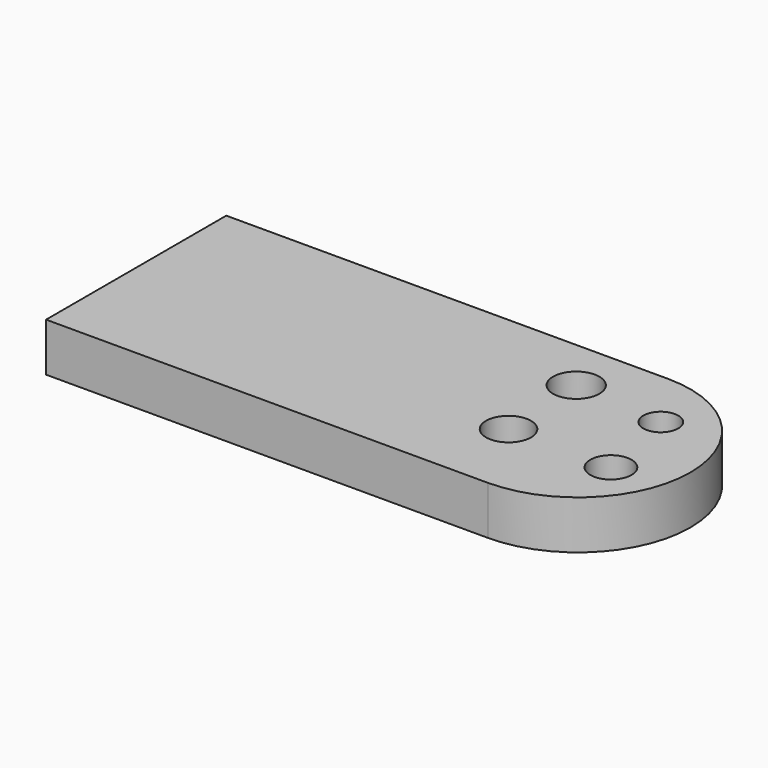
from build123d import *

# Parameters (mm, degrees)
F0_W     = 36.44979
F0_H     = 18.585771
F0_R     = 1.856567
F0_R_2   = 1.911968
F0_R_3   = 1.701955
F0_R_4   = 1.440361
F1_DEPTH = 4


with BuildPart() as f1:
    # F0 (on Top) → F1 (new body)
    with BuildSketch(Plane.XY):
        with Locations((18.224895, 9.292885)):
            Rectangle(F0_W, F0_H)
        with Locations((32.812107, 6.68557)):
            Circle(F0_R, mode=Mode.SUBTRACT)
        with Locations((32.392409, 14.193539)):
            Circle(F0_R_2, mode=Mode.SUBTRACT)
        with BuildLine():
            Line((36.44979, 18.585771), (36.44979, 0))
            ThreePointArc((36.44979, 0), (45.742676, 9.292886), (36.44979, 18.585771))
        make_face()
        with Locations((41.299377, 6.638937)):
            Circle(F0_R_3, mode=Mode.SUBTRACT)
        with Locations((39.853744, 13.587307)):
            Circle(F0_R_4, mode=Mode.SUBTRACT)
    extrude(amount=F1_DEPTH)


solid = f1.part
